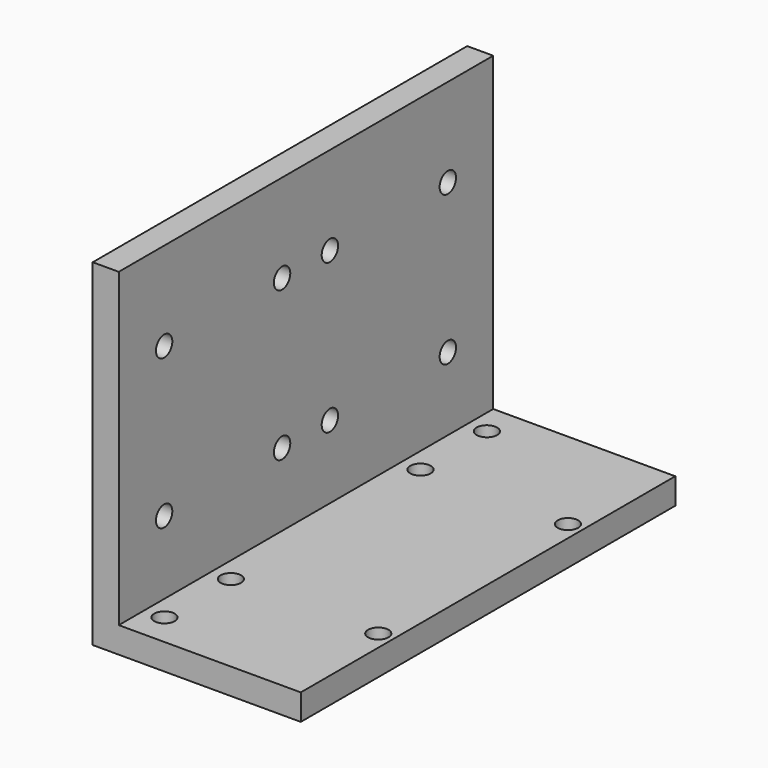
from build123d import *

# Parameters (mm, degrees)
F1_DEPTH = 228.6
F2_R     = 5
F3_DEPTH = 25
F4_R     = 5
F5_DEPTH = 101.601


with BuildPart() as f1:
    # F0 (on Front) → F1 (new body)
    with BuildSketch(Plane.XZ):
        Polygon((-84.627599, 51.257959), (-97.327599, 51.257959), (-97.327599, -113.342041), (4.272401, -113.342041), (4.272401, -100.642041), (-84.627599, -100.642041), align=None)
    extrude(amount=F1_DEPTH)

    # F2 (on face) → F3 (cut)
    with BuildSketch(Plane(origin=(0, 0, -113.342041), x_dir=(1, 0, 0), z_dir=(0, 0, -1))):
        with Locations((-3.013599, 172.19039)):
            Circle(F2_R)
        with Locations((-3.013599, 56.40959)):
            Circle(F2_R)
        with Locations((-75.014999, 172.19039)):
            Circle(F2_R)
        with Locations((-75.014999, 56.40959)):
            Circle(F2_R)
        with Locations((-75.014999, 15.875)):
            Circle(F2_R)
        with Locations((-75.014999, 212.725)):
            Circle(F2_R)
    extrude(amount=-F3_DEPTH, mode=Mode.SUBTRACT)

    # F4 (on face) → F5 (cut, through all)
    with BuildSketch(Plane(origin=(-97.327599, 0, 0), x_dir=(0, -1, 0), z_dir=(-1, 0, 0))):
        with Locations((200.8924, 8.057959)):
            Circle(F4_R)
        with Locations((128.8924, 8.057959)):
            Circle(F4_R)
        with Locations((99.7076, 8.057959)):
            Circle(F4_R)
        with Locations((27.7076, 8.057959)):
            Circle(F4_R)
        with Locations((27.708, -64.942041)):
            Circle(F4_R)
        with Locations((99.708, -64.942041)):
            Circle(F4_R)
        with Locations((128.892, -64.942041)):
            Circle(F4_R)
        with Locations((200.892, -64.942041)):
            Circle(F4_R)
    extrude(amount=-F5_DEPTH, mode=Mode.SUBTRACT)


solid = f1.part
